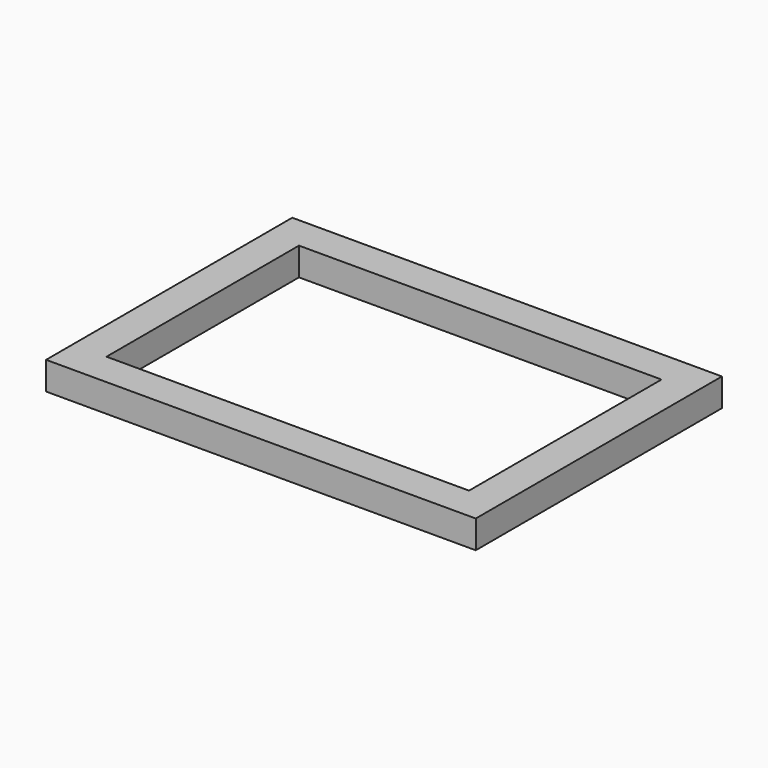
from build123d import *

# Parameters (mm, degrees)
SKETCH_W   = 38.4
SKETCH_H   = 27.5
SKETCH_W_2 = 32.4
SKETCH_H_2 = 21.5
PAD_DEPTH  = 2.5


with BuildPart() as part:
    # Sketch → Pad (new body)
    with BuildSketch(Plane.XY):
        Rectangle(SKETCH_W, SKETCH_H)
        Rectangle(SKETCH_W_2, SKETCH_H_2, mode=Mode.SUBTRACT)
    extrude(amount=PAD_DEPTH)


solid = part.part
